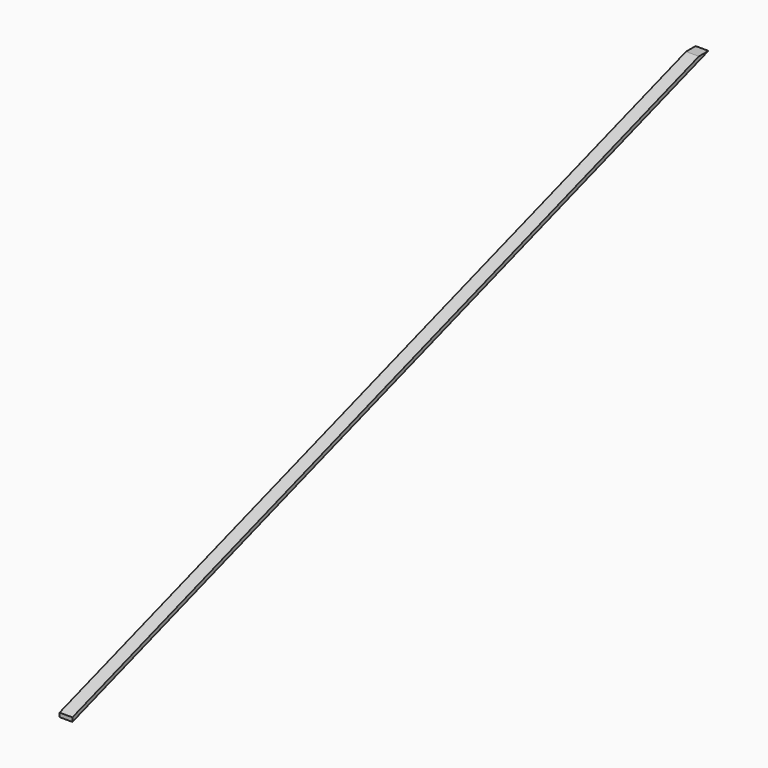
from build123d import *

# Parameters (mm, degrees)
F0_W     = 2.3947283626
F0_H     = 149.2308974266
F1_DEPTH = 54
F3_DEPTH = 25
F4_SCALE = 1.5


with BuildPart() as f1:
    # F0 (on Top) → F1 (new body)
    with BuildSketch(Plane.XY):
        with Locations((-1.1973641813, -0.0216662884)):
            Rectangle(F0_W, F0_H)
    extrude(amount=F1_DEPTH)

    # F2 (on face) → F3 (cut)
    with BuildSketch(Plane.YZ):
        Polygon((-74.6371150017, 54), (-74.6371150017, 4.9500004388), (71.1000040174, 54), align=None)
        Polygon((73.3271613717, 54), (-74.6371150017, 4.2004174363), (-74.6371150017, 0), (74.5937824249, 0), (74.5937824249, 54), align=None)
    extrude(amount=-F3_DEPTH, mode=Mode.SUBTRACT)


with BuildPart() as f1_1:
    # F4: moved
    add(f1.part.scale(F4_SCALE).moved(Location((0, 37.3185575008, -2.1002087182))))


solid = f1_1.part
